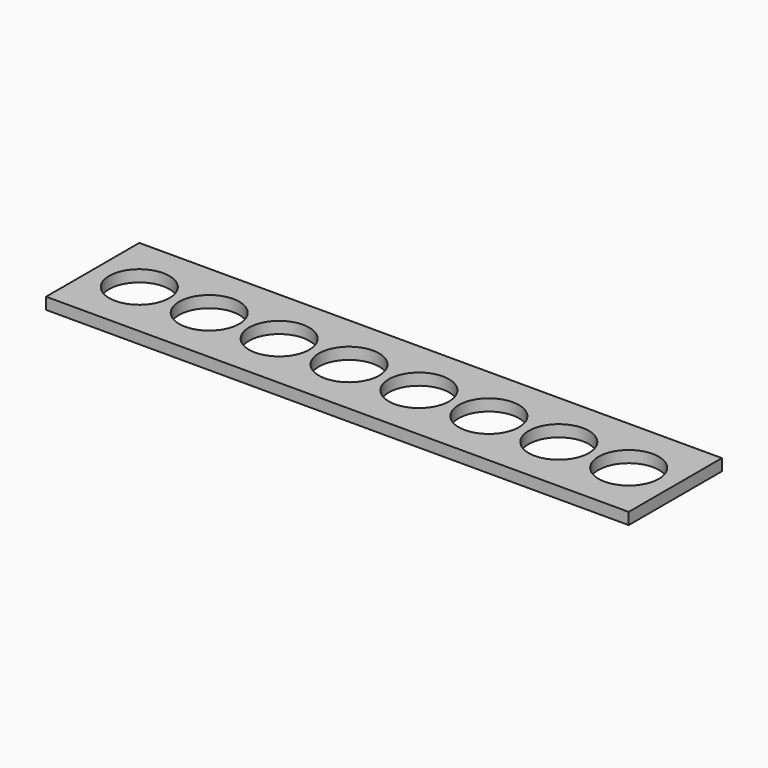
from build123d import *

# Parameters (mm, degrees)
F0_W     = 300
F0_H     = 60
F0_R     = 15.5
F1_DEPTH = 6


with BuildPart() as f1:
    # F0 (on Top) → F1 (new body)
    with BuildSketch(Plane.XY):
        Rectangle(F0_W, F0_H)
        with Locations((-126, 0)):
            Circle(F0_R, mode=Mode.SUBTRACT)
        with Locations((-90, 0)):
            Circle(F0_R, mode=Mode.SUBTRACT)
        with Locations((-54, 0)):
            Circle(F0_R, mode=Mode.SUBTRACT)
        with Locations((-18, 0)):
            Circle(F0_R, mode=Mode.SUBTRACT)
        with Locations((18, 0)):
            Circle(F0_R, mode=Mode.SUBTRACT)
        with Locations((54, 0)):
            Circle(F0_R, mode=Mode.SUBTRACT)
        with Locations((90, 0)):
            Circle(F0_R, mode=Mode.SUBTRACT)
        with Locations((126, 0)):
            Circle(F0_R, mode=Mode.SUBTRACT)
    extrude(amount=F1_DEPTH)


solid = f1.part
